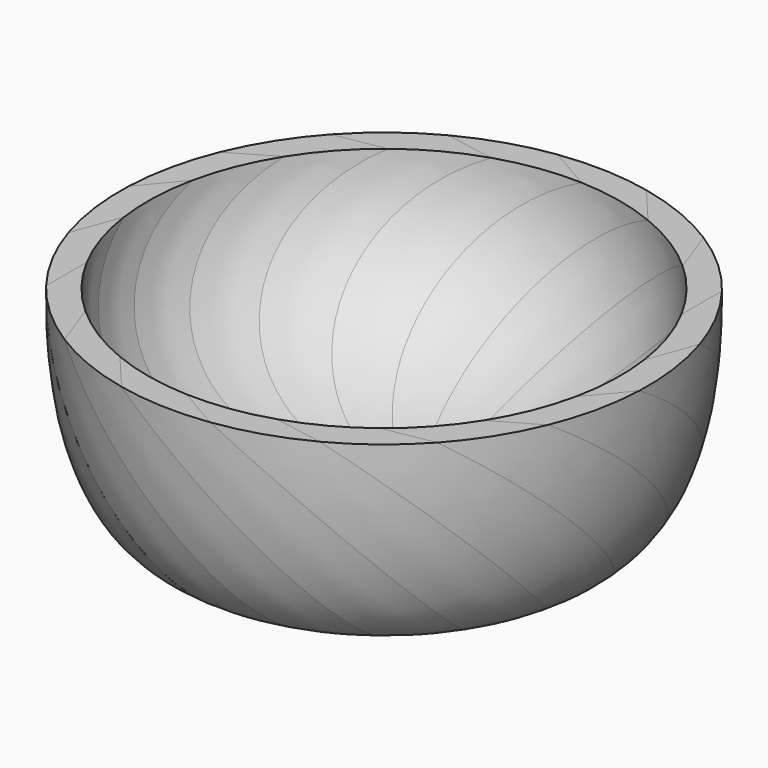
from build123d import *

# Parameters (mm, degrees)
F3_COUNT = 18


with BuildPart() as f2:
    # F2: sweep along a path in F1
    with BuildLine(Plane.YZ) as f2_path:
        Line((0, 0), (-107.763073, 107.763073))
    # F0 (on Top) → F2 (sweep)
    with BuildSketch(Plane.XY):
        Polygon((152.4, 26.872232), (0, 0), (152.4, -26.872232), align=None)
    sweep(path=f2_path.line)


with BuildPart() as f3_1:
    # F3: instance of F2
    add(f2.part.rotate(Axis((0, 0, 85.842504), (0, 0, -1)), 1 * 360 / F3_COUNT))


with BuildPart() as f3_2:
    # F3: instance of F2
    add(f2.part.rotate(Axis((0, 0, 85.842504), (0, 0, -1)), 2 * 360 / F3_COUNT))


with BuildPart() as f3_3:
    # F3: instance of F2
    add(f2.part.rotate(Axis((0, 0, 85.842504), (0, 0, -1)), 3 * 360 / F3_COUNT))


with BuildPart() as f3_4:
    # F3: instance of F2
    add(f2.part.rotate(Axis((0, 0, 85.842504), (0, 0, -1)), 4 * 360 / F3_COUNT))


with BuildPart() as f3_5:
    # F3: instance of F2
    add(f2.part.rotate(Axis((0, 0, 85.842504), (0, 0, -1)), 5 * 360 / F3_COUNT))


with BuildPart() as f3_6:
    # F3: instance of F2
    add(f2.part.rotate(Axis((0, 0, 85.842504), (0, 0, -1)), 6 * 360 / F3_COUNT))


with BuildPart() as f3_7:
    # F3: instance of F2
    add(f2.part.rotate(Axis((0, 0, 85.842504), (0, 0, -1)), 7 * 360 / F3_COUNT))


with BuildPart() as f3_8:
    # F3: instance of F2
    add(f2.part.rotate(Axis((0, 0, 85.842504), (0, 0, -1)), 8 * 360 / F3_COUNT))


with BuildPart() as f3_9:
    # F3: instance of F2
    add(f2.part.rotate(Axis((0, 0, 85.842504), (0, 0, -1)), 9 * 360 / F3_COUNT))


with BuildPart() as f3_10:
    # F3: instance of F2
    add(f2.part.rotate(Axis((0, 0, 85.842504), (0, 0, -1)), 10 * 360 / F3_COUNT))


with BuildPart() as f3_11:
    # F3: instance of F2
    add(f2.part.rotate(Axis((0, 0, 85.842504), (0, 0, -1)), 11 * 360 / F3_COUNT))


with BuildPart() as f3_12:
    # F3: instance of F2
    add(f2.part.rotate(Axis((0, 0, 85.842504), (0, 0, -1)), 12 * 360 / F3_COUNT))


with BuildPart() as f3_13:
    # F3: instance of F2
    add(f2.part.rotate(Axis((0, 0, 85.842504), (0, 0, -1)), 13 * 360 / F3_COUNT))


with BuildPart() as f3_14:
    # F3: instance of F2
    add(f2.part.rotate(Axis((0, 0, 85.842504), (0, 0, -1)), 14 * 360 / F3_COUNT))


with BuildPart() as f3_15:
    # F3: instance of F2
    add(f2.part.rotate(Axis((0, 0, 85.842504), (0, 0, -1)), 15 * 360 / F3_COUNT))


with BuildPart() as f3_16:
    # F3: instance of F2
    add(f2.part.rotate(Axis((0, 0, 85.842504), (0, 0, -1)), 16 * 360 / F3_COUNT))


with BuildPart() as f3_17:
    # F3: instance of F2
    add(f2.part.rotate(Axis((0, 0, 85.842504), (0, 0, -1)), 17 * 360 / F3_COUNT))


with BuildPart() as f5_tool:
    # F4 (on Right) → F5 (revolve)
    with BuildSketch(Plane.YZ):
        with BuildLine():
            Line((-120.097362, 107.763073), (-133.765772, 120.463073))
            add(Edge.make_bspline(
                [(-81.268728, 0), (-122.771537, 0), (-136.777386, 55.112571), (-133.765772, 120.463073)],
                knots=[0, 0, 0, 0, 131.405067, 131.405067, 131.405067, 131.405067], degree=3))
            Line((-81.268728, 0), (0, 0))
            Line((0, 0), (0, 12.7))
            add(Edge.make_bspline(
                [(0, 12.7), (-70.761859, 15.773364), (-120.097362, 52.826732), (-120.097362, 107.763073)],
                knots=[0, 0, 0, 0, 153.167765, 153.167765, 153.167765, 153.167765], degree=3))
        make_face()
    revolve(axis=Axis((0, 0, 6.35), (0, 0, 1)))


with BuildPart() as f2_1:
    add(f2.part)

    # F5: intersect by f5_tool
    add(f5_tool.part, mode=Mode.INTERSECT)


with BuildPart() as f3_1_1:
    add(f3_1.part)

    # F5: intersect by f5_tool
    add(f5_tool.part, mode=Mode.INTERSECT)


with BuildPart() as f3_2_1:
    add(f3_2.part)

    # F5: intersect by f5_tool
    add(f5_tool.part, mode=Mode.INTERSECT)


with BuildPart() as f3_3_1:
    add(f3_3.part)

    # F5: intersect by f5_tool
    add(f5_tool.part, mode=Mode.INTERSECT)


with BuildPart() as f3_4_1:
    add(f3_4.part)

    # F5: intersect by f5_tool
    add(f5_tool.part, mode=Mode.INTERSECT)


with BuildPart() as f3_5_1:
    add(f3_5.part)

    # F5: intersect by f5_tool
    add(f5_tool.part, mode=Mode.INTERSECT)


with BuildPart() as f3_6_1:
    add(f3_6.part)

    # F5: intersect by f5_tool
    add(f5_tool.part, mode=Mode.INTERSECT)


with BuildPart() as f3_7_1:
    add(f3_7.part)

    # F5: intersect by f5_tool
    add(f5_tool.part, mode=Mode.INTERSECT)


with BuildPart() as f3_8_1:
    add(f3_8.part)

    # F5: intersect by f5_tool
    add(f5_tool.part, mode=Mode.INTERSECT)


with BuildPart() as f3_9_1:
    add(f3_9.part)

    # F5: intersect by f5_tool
    add(f5_tool.part, mode=Mode.INTERSECT)


with BuildPart() as f3_10_1:
    add(f3_10.part)

    # F5: intersect by f5_tool
    add(f5_tool.part, mode=Mode.INTERSECT)


with BuildPart() as f3_11_1:
    add(f3_11.part)

    # F5: intersect by f5_tool
    add(f5_tool.part, mode=Mode.INTERSECT)


with BuildPart() as f3_12_1:
    add(f3_12.part)

    # F5: intersect by f5_tool
    add(f5_tool.part, mode=Mode.INTERSECT)


with BuildPart() as f3_13_1:
    add(f3_13.part)

    # F5: intersect by f5_tool
    add(f5_tool.part, mode=Mode.INTERSECT)


with BuildPart() as f3_14_1:
    add(f3_14.part)

    # F5: intersect by f5_tool
    add(f5_tool.part, mode=Mode.INTERSECT)


with BuildPart() as f3_15_1:
    add(f3_15.part)

    # F5: intersect by f5_tool
    add(f5_tool.part, mode=Mode.INTERSECT)


with BuildPart() as f3_16_1:
    add(f3_16.part)

    # F5: intersect by f5_tool
    add(f5_tool.part, mode=Mode.INTERSECT)


with BuildPart() as f3_17_1:
    add(f3_17.part)

    # F5: intersect by f5_tool
    add(f5_tool.part, mode=Mode.INTERSECT)


solid = Compound([f2_1.part, f3_1_1.part, f3_2_1.part, f3_3_1.part, f3_4_1.part, f3_5_1.part, f3_6_1.part, f3_7_1.part, f3_8_1.part, f3_9_1.part, f3_10_1.part, f3_11_1.part, f3_12_1.part, f3_13_1.part, f3_14_1.part, f3_15_1.part, f3_16_1.part, f3_17_1.part])
